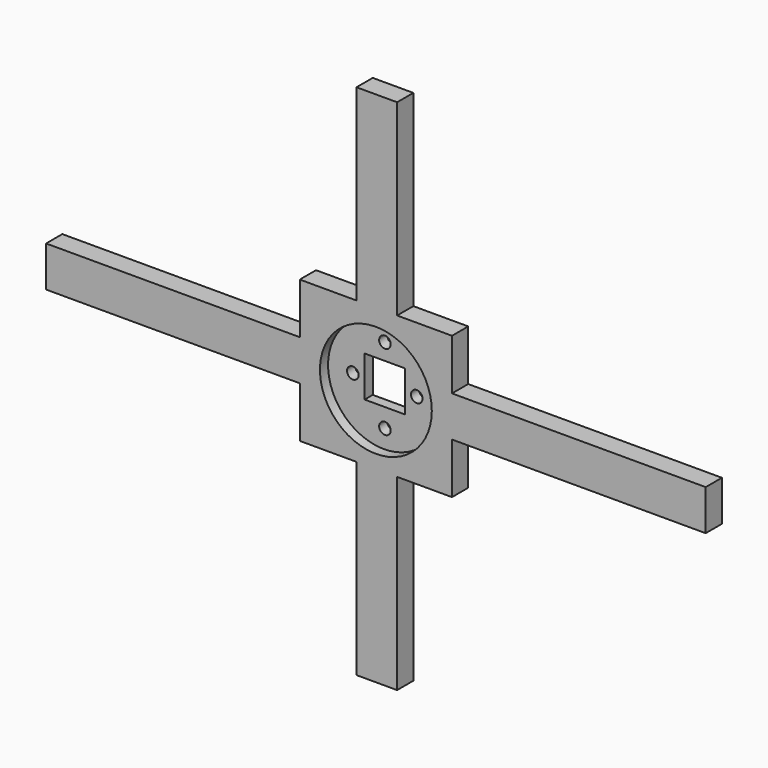
from build123d import *

# Parameters (mm, degrees)
F0_W     = 63.5
F0_H     = 10.16
F0_W_2   = 14.2032613265
F0_H_2   = 12.7
F0_W_3   = 10.16
F0_W_4   = 13.7367386735
F0_H_3   = 46.99
F1_DEPTH = 5.08
F2_R     = 14
F3_DEPTH = 2.54
F4_R     = 1.45
F4_R_2   = 2.5
F5_DEPTH = 25.4


with BuildPart() as f1:
    # F0 (on Front) → F1 (new body)
    with BuildSketch(Plane.XZ):
        with Locations((-20.2580714928, -4.9235147662)):
            Rectangle(F0_W, F0_H)
        with Locations((18.5935591704, 6.5064852338)):
            Rectangle(F0_W_2, F0_H_2)
        with Locations((18.5935591704, -4.9235147662)):
            Rectangle(F0_W_2, F0_H)
        with Locations((30.7751898336, 6.5064852338)):
            Rectangle(F0_W_3, F0_H_2)
        with Locations((18.5935591704, -16.3535147662)):
            Rectangle(F0_W_2, F0_H_2)
        with Locations((42.7235591704, 6.5064852338)):
            Rectangle(F0_W_4, F0_H_2)
        with Locations((42.7235591704, -4.9235147662)):
            Rectangle(F0_W_4, F0_H)
        with Locations((30.7751898336, 36.3514852338)):
            Rectangle(F0_W_3, F0_H_3)
        with Locations((30.7751898336, -16.3535147662)):
            Rectangle(F0_W_3, F0_H_2)
        with Locations((81.3419285072, -4.9235147662)):
            Rectangle(F0_W, F0_H)
        with Locations((42.7235591704, -16.3535147662)):
            Rectangle(F0_W_4, F0_H_2)
        with Locations((30.7751898336, -46.1985147662)):
            Rectangle(F0_W_3, F0_H_3)
    extrude(amount=F1_DEPTH)

    # F2 (on face) → F3 (cut)
    with BuildSketch(Plane.XZ.offset(5.08)):
        with Locations((30.5391428791, -5.3559371654)):
            Circle(F2_R)
    extrude(amount=-F3_DEPTH, mode=Mode.SUBTRACT)

    # F4 (on face) → F5 (cut)
    with BuildSketch(Plane.XZ.offset(2.54)):
        with Locations((38.7418020368, -5.1013086922)):
            Circle(F4_R)
        with Locations((22.7418020368, -5.1013086922)):
            Circle(F4_R)
        with Locations((30.7751898336, -14.7041610032)):
            Circle(F4_R)
        with Locations((30.7751898336, 4.2958389968)):
            Circle(F4_R)
        with Locations((30.5391428791, -5.3559371654)):
            Circle(F4_R_2)
    extrude(amount=-F5_DEPTH, mode=Mode.SUBTRACT)


solid = f1.part
